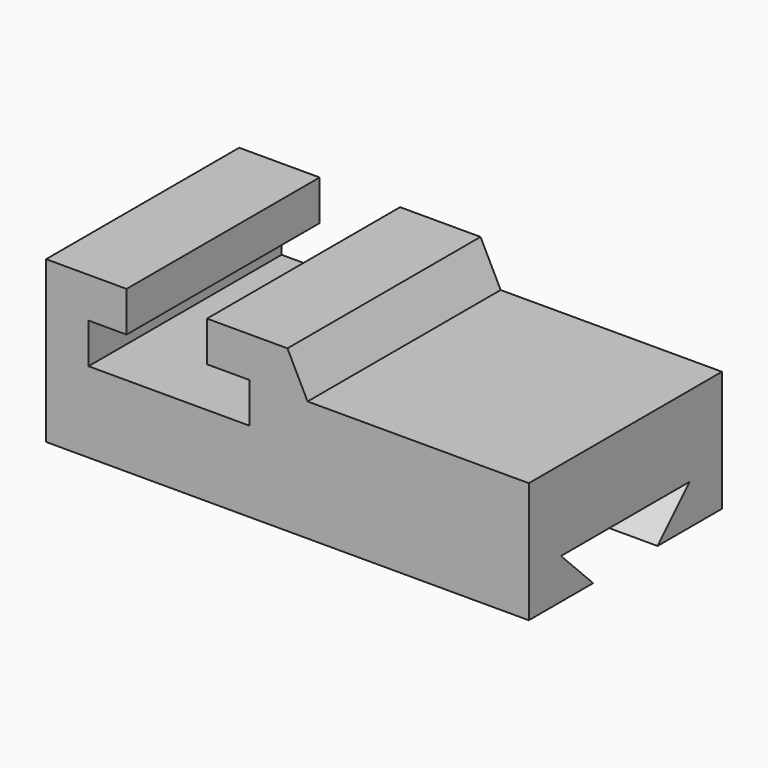
from build123d import *

# Parameters (mm, degrees)
F1_DEPTH = 76.2
F3_DEPTH = 152.4


with BuildPart() as f1:
    # F0 (on Front) → F1 (new body)
    with BuildSketch(Plane.XZ):
        Polygon((0, 50.8), (0, 0), (152.4, 0), (152.4, 38.1), (82.55, 38.1), (76.2, 50.8), (50.8, 50.8), (50.8, 38.1), (64.193791, 38.1), (64.193791, 25.4), (13.393791, 25.4), (13.393791, 38.1), (25.4, 38.1), (25.4, 50.8), align=None)
    extrude(amount=-F1_DEPTH)

    # F2 (on face) → F3 (cut)
    with BuildSketch(Plane.YZ.offset(152.4)):
        Polygon((12.7, 12.7), (25.4, 0), (50.8, 0), (63.5, 12.7), align=None)
    extrude(amount=-F3_DEPTH, mode=Mode.SUBTRACT)


solid = f1.part
